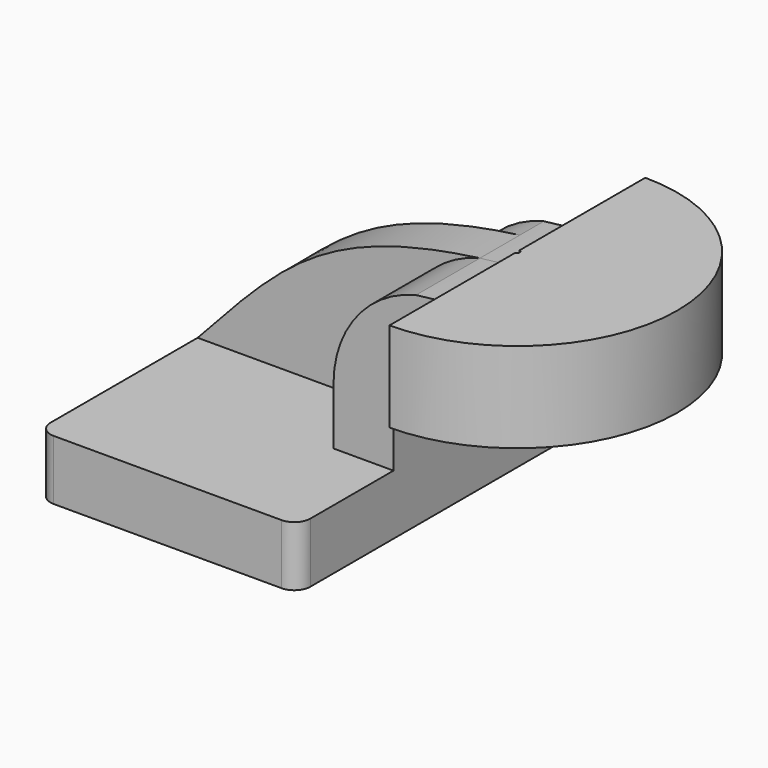
from build123d import *

# Parameters (mm, degrees)
F1_DEPTH = 63.5
F2_DEPTH = 25.4
F3_DEPTH = 15.875
F4_ANGLE = 180
F5_R     = 5.08


with BuildPart() as f1:
    # F0 (on Front) → F1 (new body, symmetric)
    with BuildSketch(Plane.XZ):
        Polygon((22.225, 9.525), (-41.275, 9.525), (-41.275, -9.525), (41.275, -9.525), (41.275, 9.525), align=None)
    extrude(amount=F1_DEPTH, both=True)

    # F0 (on Front) → F2 (join, symmetric)
    with BuildSketch(Plane.XZ):
        with BuildLine():
            Line((22.225, 27.6352), (22.225, 9.525))
            Line((22.225, 9.525), (41.275, 9.525))
            Line((41.275, 9.525), (41.275, 27.6352))
            ThreePointArc((41.275, 27.6352), (45.738693, 38.411507), (56.515, 42.8752))
            Line((56.515, 42.8752), (60.325, 42.8752))
            Line((60.325, 42.8752), (60.325, 61.9252))
            Line((60.325, 61.9252), (56.515, 61.9252))
            add(Edge.make_bspline(
                [(48.419926, 60.955972), (51.017529, 61.304979), (53.713576, 61.627931), (56.515, 61.9252)],
                knots=[105.444957, 105.444957, 105.444957, 105.444957, 110.944423, 110.944423, 110.944423, 110.944423], degree=3))
            ThreePointArc((48.419926, 60.955972), (29.557773, 48.827463), (22.225, 27.6352))
        make_face()
    extrude(amount=F2_DEPTH, both=True)

    # F0 (on Front) → F3 (join)
    with BuildSketch(Plane.XZ):
        with BuildLine():
            add(Edge.make_bspline(
                [(-41.275, 9.525), (-14.999935, 37.993934), (-1.385662, 54.264229), (48.419926, 60.955972)],
                knots=[0, 0, 0, 0, 105.444957, 105.444957, 105.444957, 105.444957], degree=3))
            Line((-41.275, 9.525), (22.225, 9.525))
            Line((22.225, 9.525), (22.225, 27.6352))
            ThreePointArc((22.225, 27.6352), (29.557773, 48.827463), (48.419926, 60.955972))
        make_face()
    extrude(amount=-F3_DEPTH)

    # F0 (on Front) → F4 (revolve, symmetric)
    with BuildSketch(Plane.XZ) as f4_sk:
        Polygon((61.098028, 66.675), (61.098028, 61.9252), (75.06405, 61.9252), (75.06405, 38.1), (111.125, 38.1), (111.125, 66.675), align=None)
        Polygon((75.06405, 61.9252), (61.098028, 61.9252), (61.098028, 42.8752), (61.098028, 38.1), (75.06405, 38.1), align=None)
    revolve(axis=Axis((60.325, 0, 52.3875), (0, 0, 1)), revolution_arc=F4_ANGLE / 2)
    revolve(f4_sk.sketch, axis=Axis((60.325, 0, 52.3875), (0, 0, -1)), revolution_arc=F4_ANGLE / 2)

    # F5
    f5_edges = [f1.edges().sort_by_distance(p)[0] for p in [
        (41.275, -63.5, 0),
        (-41.275, -63.5, 0),
        (-41.275, 63.5, 0),
        (41.275, 63.5, 0),
    ]]
    fillet(f5_edges, radius=F5_R)


solid = f1.part
